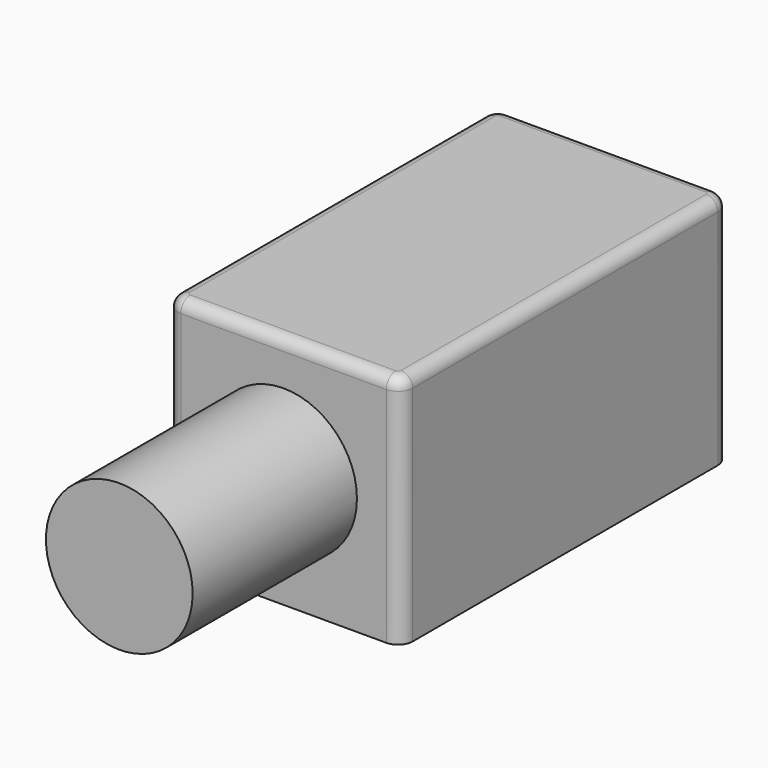
from build123d import *

# Parameters (mm, degrees)
F0_W     = 101.6
F0_H     = 101.6
F1_DEPTH = 177.8
F2_R     = 31.75
F3_DEPTH = 88.9
F4_R     = 6.35
F5_R     = 5.08


with BuildPart() as f1:
    # F0 (on Front) → F1 (new body)
    with BuildSketch(Plane.XZ):
        with Locations((-43.596539, 12.358267)):
            Rectangle(F0_W, F0_H)
    extrude(amount=-F1_DEPTH)

    # F2 (on face) → F3 (join)
    with BuildSketch(Plane.XZ):
        with Locations((-43.596539, 12.358267)):
            Circle(F2_R)
    extrude(amount=F3_DEPTH)

    # F4
    f4_edges = [f1.edges().sort_by_distance(p)[0] for p in [
        (7.203461, 0, 12.358267),
        (-94.396539, 0, 12.358267),
        (7.203461, 177.8, 12.358267),
        (-94.396539, 177.8, 12.358267),
    ]]
    fillet(f4_edges, radius=F4_R)

    # F5
    f5_edges = [f1.edges().sort_by_distance(p)[0] for p in [
        (7.203461, 88.9, 63.158267),
    ]]
    fillet(f5_edges, radius=F5_R)


solid = f1.part
